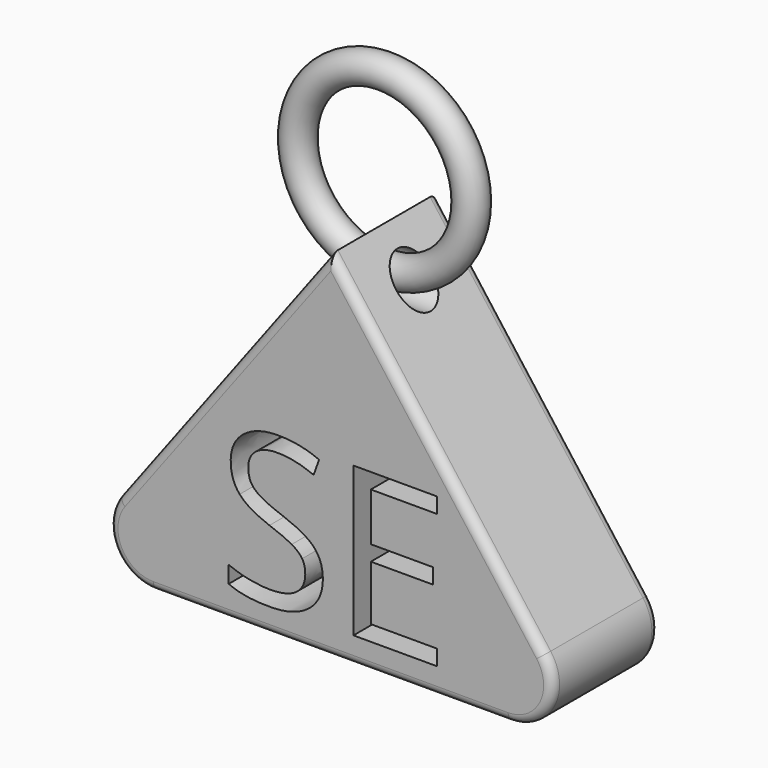
from build123d import *

# Parameters (mm, degrees)
F1_DEPTH = 15
F2_R     = 5
F3_R     = 1
F4_R     = 2.5
F5_DEPTH = 12.5
F6_R     = 1.75


with BuildPart() as f1:
    # F0 (on Front) → F1 (new body)
    with BuildSketch(Plane.XZ):
        Polygon((30, -45.3359890039), (0, -5.3359890039), (-30, -45.3359890039), (0, -45.3359890039), align=None)
        with BuildLine():
            add(Edge.make_bspline(
                [(-1.8929857079, -35.0402501436), (-0.896730762, -36.1250610847), (-0.896730762, -37.8519029909)],
                knots=[0, 0, 0, 1, 1, 1], degree=2))
            add(Edge.make_bspline(
                [(-0.896730762, -37.8519029909), (-0.896730762, -40.0768723701), (-2.5110327577, -41.324035969)],
                knots=[0, 0, 0, 1, 1, 1], degree=2))
            add(Edge.make_bspline(
                [(-2.5110327577, -41.324035969), (-4.1253347533, -42.571199568), (-6.8927096031, -42.571199568)],
                knots=[0, 0, 0, 1, 1, 1], degree=2))
            add(Edge.make_bspline(
                [(-6.8927096031, -42.571199568), (-9.888854107, -42.571199568), (-11.5050010193, -41.79633461)],
                knots=[0, 0, 0, 1, 1, 1], degree=2))
            Line((-11.5050010193, -41.79633461), (-11.5050010193, -39.907140046))
            add(Edge.make_bspline(
                [(-11.5050010193, -39.907140046), (-10.4644680758, -40.3425403557), (-9.2431333088, -40.5971388418)],
                knots=[0, 0, 0, 1, 1, 1], degree=2))
            add(Edge.make_bspline(
                [(-9.2431333088, -40.5971388418), (-8.0217985417, -40.851737328), (-6.8226027735, -40.851737328)],
                knots=[0, 0, 0, 1, 1, 1], degree=2))
            add(Edge.make_bspline(
                [(-6.8226027735, -40.851737328), (-4.8633013799, -40.851737328), (-3.8707362672, -40.1082359517)],
                knots=[0, 0, 0, 1, 1, 1], degree=2))
            add(Edge.make_bspline(
                [(-3.8707362672, -40.1082359517), (-2.8781711544, -39.3647345754), (-2.8781711544, -38.0363946476)],
                knots=[0, 0, 0, 1, 1, 1], degree=2))
            add(Edge.make_bspline(
                [(-2.8781711544, -38.0363946476), (-2.8781711544, -37.161904195), (-3.2305502186, -36.6028944754)],
                knots=[0, 0, 0, 1, 1, 1], degree=2))
            add(Edge.make_bspline(
                [(-3.2305502186, -36.6028944754), (-3.5829292828, -36.0438847557), (-4.407606988, -35.5697411982)],
                knots=[0, 0, 0, 1, 1, 1], degree=2))
            add(Edge.make_bspline(
                [(-4.407606988, -35.5697411982), (-5.2322846932, -35.0955976406), (-6.9148486019, -34.497844673)],
                knots=[0, 0, 0, 1, 1, 1], degree=2))
            add(Edge.make_bspline(
                [(-6.9148486019, -34.497844673), (-9.2652723076, -33.6565627187), (-10.2744416694, -32.5034898647)],
                knots=[0, 0, 0, 1, 1, 1], degree=2))
            add(Edge.make_bspline(
                [(-10.2744416694, -32.5034898647), (-11.2836110313, -31.3504170106), (-11.2836110313, -29.4944309447)],
                knots=[0, 0, 0, 1, 1, 1], degree=2))
            add(Edge.make_bspline(
                [(-11.2836110313, -29.4944309447), (-11.2836110313, -27.5461990505), (-9.8205921941, -26.3931261965)],
                knots=[0, 0, 0, 1, 1, 1], degree=2))
            add(Edge.make_bspline(
                [(-9.8205921941, -26.3931261965), (-8.3575733568, -25.2400533424), (-5.9444224879, -25.2400533424)],
                knots=[0, 0, 0, 1, 1, 1], degree=2))
            add(Edge.make_bspline(
                [(-5.9444224879, -25.2400533424), (-3.4316461243, -25.2400533424), (-1.3210615723, -26.1625116257)],
                knots=[0, 0, 0, 1, 1, 1], degree=2))
            Line((-1.3210615723, -26.1625116257), (-1.9335738723, -27.8672145331))
            add(Edge.make_bspline(
                [(-1.9335738723, -27.8672145331), (-4.0220194256, -26.9927240806), (-5.9923903186, -26.9927240806)],
                knots=[0, 0, 0, 1, 1, 1], degree=2))
            add(Edge.make_bspline(
                [(-5.9923903186, -26.9927240806), (-7.5494999007, -26.9927240806), (-8.4258352698, -27.6605838776)],
                knots=[0, 0, 0, 1, 1, 1], degree=2))
            add(Edge.make_bspline(
                [(-8.4258352698, -27.6605838776), (-9.3021706389, -28.3284436747), (-9.3021706389, -29.5165699435)],
                knots=[0, 0, 0, 1, 1, 1], degree=2))
            add(Edge.make_bspline(
                [(-9.3021706389, -29.5165699435), (-9.3021706389, -30.391060396), (-8.9793102398, -30.9519150323)],
                knots=[0, 0, 0, 1, 1, 1], degree=2))
            add(Edge.make_bspline(
                [(-8.9793102398, -30.9519150323), (-8.6564498406, -31.5127696685), (-7.888964549, -31.9795335598)],
                knots=[0, 0, 0, 1, 1, 1], degree=2))
            add(Edge.make_bspline(
                [(-7.888964549, -31.9795335598), (-7.1214792573, -32.4462974511), (-5.5422306764, -33.0108419204)],
                knots=[0, 0, 0, 1, 1, 1], degree=2))
            add(Edge.make_bspline(
                [(-5.5422306764, -33.0108419204), (-2.8892406538, -33.9554392025), (-1.8929857079, -35.0402501436)],
                knots=[0, 0, 0, 1, 1, 1], degree=2))
        make_face(mode=Mode.SUBTRACT)
        Polygon((11.951268207, -40.5860693424), (11.951268207, -42.3387400806), (2.5532632173, -42.3387400806), (2.5532632173, -25.4798924961), (11.951268207, -25.4798924961), (11.951268207, -27.2214937348), (4.512564611, -27.2214937348), (4.512564611, -32.6529281066), (11.5011085648, -32.6529281066), (11.5011085648, -34.3834598459), (4.512564611, -34.3834598459), (4.512564611, -40.5860693424), align=None, mode=Mode.SUBTRACT)
    extrude(amount=F1_DEPTH)

    # F2
    f2_edges = [f1.edges().sort_by_distance(p)[0] for p in [
        (30, -7.5, -45.335989),
        (-30, -7.5, -45.335989),
    ]]
    fillet(f2_edges, radius=F2_R)

    # F3
    f3_edges = [f1.edges().sort_by_distance(p)[0] for p in [
        (-24.472136, 0, -42.572057),
        (-20, -7.5, -45.335989),
        (-24, -7.5, -37.335989),
        (-24.472136, -15, -42.572057),
        (24.472136, 0, -42.572057),
        (20, -7.5, -45.335989),
        (24, -7.5, -37.335989),
        (24.472136, -15, -42.572057),
    ]]
    fillet(f3_edges, radius=F3_R)

    # F4 (on Right) → F5 (cut, symmetric)
    with BuildSketch(Plane.YZ):
        with Locations((-7.4887694791, -9.8359890039)):
            Circle(F4_R)
    extrude(amount=F5_DEPTH, both=True, mode=Mode.SUBTRACT)


with BuildPart() as f9:
    # F9: sweep along a path in F8
    with BuildLine(Plane.XZ.offset(7.4256048538)) as f9_path:
        CenterArc((0, 0), 10, 0, 360)
    # F6 (on Right) → F9 (sweep)
    with BuildSketch(Plane.YZ):
        with Locations((-7.4256048538, -9.7787408158)):
            Circle(F6_R)
    sweep(path=f9_path.line)


solid = Compound([f1.part, f9.part])
